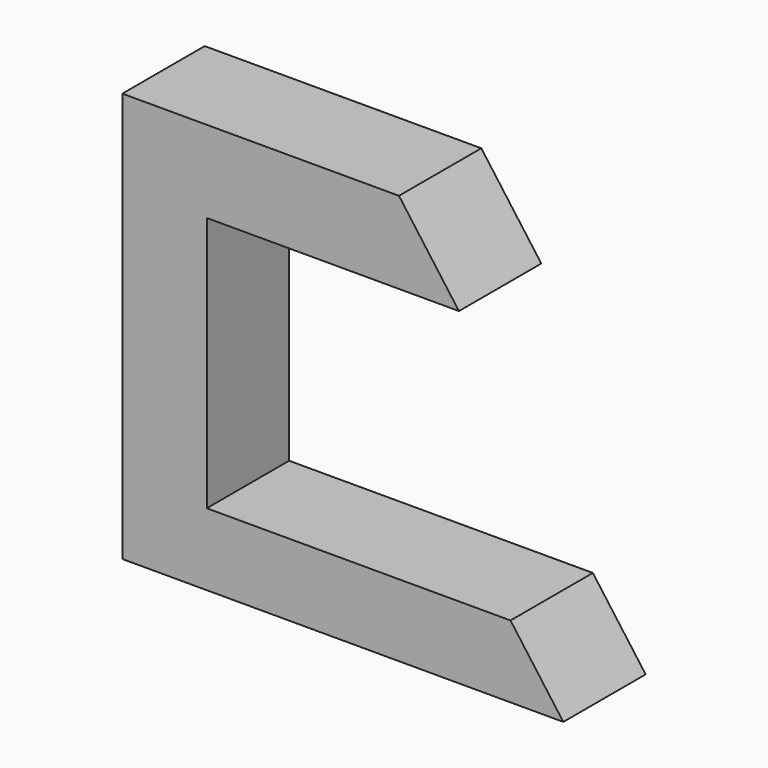
from build123d import *

# Parameters (mm, degrees)
F1_DEPTH = 25


with BuildPart() as f1:
    # F0 (on Front) → F1 (new body)
    with BuildSketch(Plane.XZ):
        Polygon((-46.670273, 62.068569), (-67.177035, 81.979203), (-67.177035, 0), (-46.670273, 0), align=None)
        Polygon((-46.670273, 81.979203), (-67.177035, 81.979203), (-46.670273, 62.068569), align=None)
        Polygon((-46.670273, 0), (-67.177035, 0), (-67.177035, -14.897), (-67.177035, -17.522057), (0, -17.522057), (39.91276, -17.522057), (27.090134, 0), align=None)
        Polygon((-46.670273, 81.979203), (-46.670273, 62.068569), (14.570585, 62.068569), (0, 81.979203), align=None)
    extrude(amount=F1_DEPTH)


solid = f1.part
